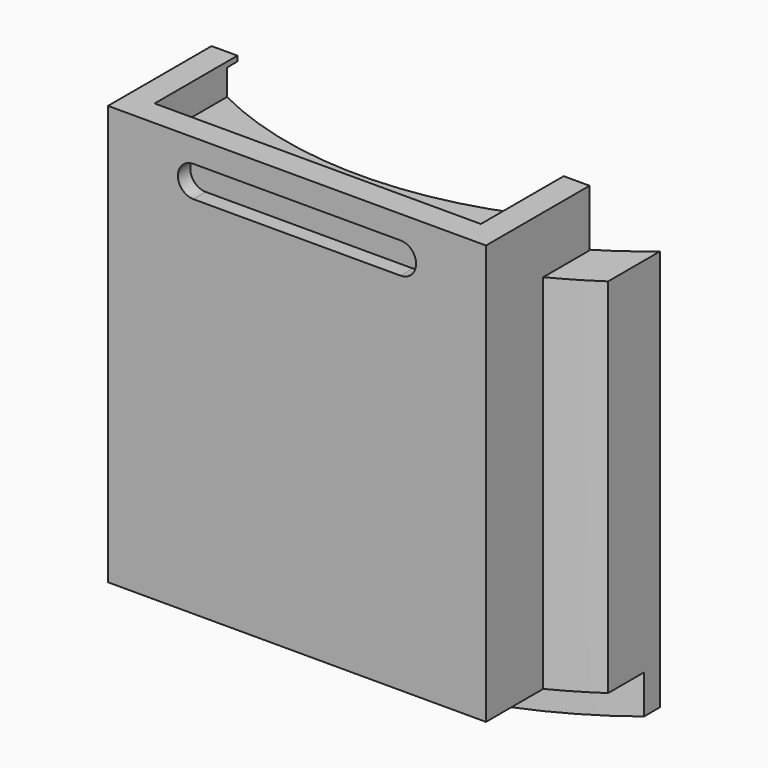
from build123d import *

# Parameters (mm, degrees)
BOX017_W                    = 12.6
BOX017_H                    = 10
BOX017_DEPTH                = 2
BOX016_W                    = 3
BOX016_H                    = 6
BOX016_DEPTH                = 20
BOX015_W                    = 3
BOX015_H                    = 6
BOX015_DEPTH                = 20
BOX013_W                    = 12.6
BOX013_H                    = 10
BOX013_DEPTH                = 1
CYLINDER016_R               = 4.5
CYLINDER016_DEPTH           = 1.5
SKETCH018_R                 = 2.1
PAD011_DEPTH                = 0.8
CYLINDER015_R               = 14
CYLINDER015_DEPTH           = 19
CYLINDER018_W               = 16
CYLINDER018_H               = 14
CYLINDER018_ANGLE           = 80
CYLINDER018_PLACEMENT_ANGLE = 230
BOX014_W                    = 14.6
BOX014_H                    = 5
BOX014_DEPTH                = 16.2
POCKET002_DEPTH             = 0.6
PAD012_DEPTH                = 1.5


with BuildPart() as cubo013:
    # Box017 → Box017 (new body)
    with BuildSketch(Plane(origin=(-6.3, -16, 18), x_dir=(1, 0, 0), z_dir=(0, 0, 1))):
        with Locations((6.3, 5)):
            Rectangle(BOX017_W, BOX017_H)
    extrude(amount=BOX017_DEPTH)


with BuildPart() as cubo012:
    # Box016 → Box016 (new body)
    with BuildSketch(Plane(origin=(-12, -15, 0), x_dir=(1, 0, 0), z_dir=(0, 0, 1))):
        with Locations((1.5, 3)):
            Rectangle(BOX016_W, BOX016_H)
    extrude(amount=BOX016_DEPTH)


with BuildPart() as obj1:
    # Box015 → Box015 (new body)
    with BuildSketch(Plane(origin=(9, -15, 0), x_dir=(1, 0, 0), z_dir=(0, 0, 1))):
        with Locations((1.5, 3)):
            Rectangle(BOX015_W, BOX015_H)
    extrude(amount=BOX015_DEPTH)

    # Fusion011: union Cubo012
    add(cubo012.part)


with BuildPart() as cubo009:
    # Box013 → Box013 (new body)
    with BuildSketch(Plane(origin=(-6.3, -16, 18), x_dir=(1, 0, 0), z_dir=(0, 0, 1))):
        with Locations((6.3, 5)):
            Rectangle(BOX013_W, BOX013_H)
    extrude(amount=BOX013_DEPTH)


with BuildPart() as cilindro008:
    # Cylinder016 → Cylinder016 (new body)
    with BuildSketch(Plane(origin=(0, 8, 19), x_dir=(1, 0, 0), z_dir=(0, 0, 1))):
        Circle(CYLINDER016_R)
    extrude(amount=CYLINDER016_DEPTH)


with BuildPart() as pad011:
    # Sketch018 → Pad011 (new body)
    with BuildSketch(Plane.XY.offset(18.2)):
        with BuildLine():
            ThreePointArc((-17.5, 3.5), (-21, 0), (-17.5, -3.5))
            Line((-17.5, -3.5), (17.5, -3.5))
            ThreePointArc((17.5, -3.5), (21, 0), (17.5, 3.5))
            Line((-17.5, 3.5), (17.5, 3.5))
        make_face()
        with Locations((-17.5, 0)):
            Circle(SKETCH018_R, mode=Mode.SUBTRACT)
        with Locations((17.5, 0)):
            Circle(SKETCH018_R, mode=Mode.SUBTRACT)
    extrude(amount=PAD011_DEPTH)


with BuildPart() as body001:
    # Cylinder015 → Cylinder015 (new body)
    with BuildSketch(Plane.XY):
        Circle(CYLINDER015_R)
    extrude(amount=CYLINDER015_DEPTH)

    # Fusion007: union Pad011
    add(pad011.part)

    # Fusion009: union Cilindro008
    add(cilindro008.part)

    # Fusion010: union Cubo009
    add(cubo009.part)


with BuildPart() as cut021:
    # Cylinder018 → Cylinder018 (revolve)
    with BuildSketch(Plane.XZ):
        with Locations((8, 7)):
            Rectangle(CYLINDER018_W, CYLINDER018_H)
    revolve(axis=Axis((0, 0, 0), (0, 0, 1)), revolution_arc=CYLINDER018_ANGLE)


with BuildPart() as cut021_1:
    # Cylinder018 placement: moved
    add(cut021.part.moved(Location((0, 0, 3))).rotate(Axis((0, 0, 3), (0, 0, 1)), CYLINDER018_PLACEMENT_ANGLE))

    # Cut020: cut Body001
    add(body001.part, mode=Mode.SUBTRACT)

    # Cut021: cut obj1
    add(obj1.part, mode=Mode.SUBTRACT)


with BuildPart() as plastic_base_final001:
    # Box014 → Box014 (new body)
    with BuildSketch(Plane(origin=(-7.3, -17, 3), x_dir=(1, 0, 0), z_dir=(0, 0, 1))):
        with Locations((7.3, 2.5)):
            Rectangle(BOX014_W, BOX014_H)
    extrude(amount=BOX014_DEPTH)

    # Cut019: cut Body001
    add(body001.part, mode=Mode.SUBTRACT)

    # Fusion012: union Cut021
    add(cut021_1.part)

    # Cut022: cut Cubo013
    add(cubo013.part, mode=Mode.SUBTRACT)

    # Sketch019 (on Face5 of Cut022) → Pocket002 (cut)
    with BuildSketch(Plane.XZ.offset(17)):
        with BuildLine():
            ThreePointArc((-4, 18.3), (-4.6, 17.7), (-4, 17.1))
            Line((-4, 17.1), (4, 17.1))
            ThreePointArc((4, 17.1), (4.6, 17.7), (4, 18.3))
            Line((-4, 18.3), (4, 18.3))
        make_face()
    extrude(amount=-POCKET002_DEPTH, mode=Mode.SUBTRACT)

    # Sketch020 (on Face17 of Pocket002) → Pad012 (new body)
    with BuildSketch(Plane(origin=(0, 0, 3), x_dir=(1, 0, 0), z_dir=(0, 0, -1))):
        with BuildLine():
            ThreePointArc((9, 11.496086), (0, 14.6), (-9, 11.496086))
            Line((-9, 11.496086), (-9, 10.723805))
            ThreePointArc((9, 10.723805), (0, 14), (-9, 10.723805))
            Line((9, 11.496086), (9, 10.723805))
        make_face()
    extrude(amount=PAD012_DEPTH)


solid = plastic_base_final001.part
